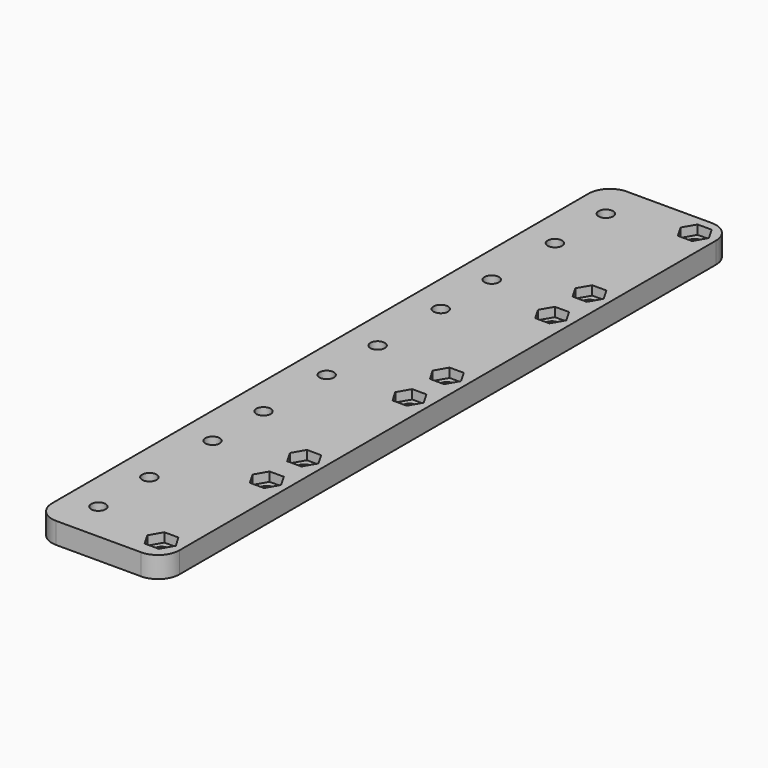
from build123d import *

# Parameters (mm, degrees)
SKETCH_W                           = 10
SKETCH_H                           = 168
PAD_DEPTH                          = 5
POCKET_DEPTH                       = 2.15
SKETCH002_R                        = 1.7
HOLE_DEPTH                         = 339.594226
POCKET_LINEARPATTERN_2_DEPTH       = 2.15
SKETCH002_LINEARPATTERN_2_R        = 1.7
HOLE_LINEARPATTERN_2_DEPTH         = 339.594226
LINEARPATTERN001_COUNT             = 4
LINEARPATTERN001_PITCH             = 42
SKETCH003_W                        = 168
SKETCH003_H                        = 5
PAD001_DEPTH                       = 20
POCKET001_DEPTH                    = 2.15
SKETCH005_R                        = 1.7
HOLE001_DEPTH                      = 344.312564
POCKET001_LINEARPATTERN002_2_DEPTH = 2.15
SKETCH005_LINEARPATTERN002_2_R     = 1.7
HOLE001_LINEARPATTERN002_2_DEPTH   = 344.312564
LINEARPATTERN003_COUNT             = 5
LINEARPATTERN003_PITCH             = 33.6
FILLET_R                           = 5


with BuildPart() as part:
    # Sketch → Pad (new body)
    with BuildSketch(Plane.XY):
        with Locations((0, -79)):
            Rectangle(SKETCH_W, SKETCH_H)
    extrude(amount=PAD_DEPTH)

    # Sketch001 (on Face6 of Pad) → Pocket (cut)
    with BuildSketch(Plane.XY.offset(5)):
        Polygon((3.348632, 0), (1.674316, 2.9), (-1.674316, 2.9), (-3.348632, 0), (-1.674316, -2.9), (1.674316, -2.9), align=None)
    pocket = extrude(amount=-POCKET_DEPTH, mode=Mode.SUBTRACT)

    # Sketch002 (on Face13 of Pocket) → Hole (cut, through all)
    with BuildSketch(Plane.XY.offset(2.85)):
        Circle(SKETCH002_R)
    hole = extrude(amount=-HOLE_DEPTH, mode=Mode.SUBTRACT)

    # Sketch001 LinearPattern 2 → Pocket LinearPattern 2 (cut)
    with BuildSketch(Plane(origin=(0, -31, 5), x_dir=(1, 0, 0), z_dir=(0, 0, 1))):
        Polygon((3.348632, 0), (1.674316, 2.9), (-1.674316, 2.9), (-3.348632, 0), (-1.674316, -2.9), (1.674316, -2.9), align=None)
    pocket_linearpattern_2 = extrude(amount=-POCKET_LINEARPATTERN_2_DEPTH, mode=Mode.SUBTRACT)

    # Sketch002 LinearPattern 2 → Hole LinearPattern 2 (cut, through all)
    with BuildSketch(Plane(origin=(0, -31, 2.85), x_dir=(1, 0, 0), z_dir=(0, 0, 1))):
        Circle(SKETCH002_LINEARPATTERN_2_R)
    hole_linearpattern_2 = extrude(amount=-HOLE_LINEARPATTERN_2_DEPTH, mode=Mode.SUBTRACT)

    # LinearPattern001: Pocket, Hole, Pocket LinearPattern 2, Hole LinearPattern 2 ×4
    with Locations(*[(0, -i * LINEARPATTERN001_PITCH, 0) for i in range(1, LINEARPATTERN001_COUNT)]):
        add(pocket, mode=Mode.SUBTRACT)
        add(hole, mode=Mode.SUBTRACT)
        add(pocket_linearpattern_2, mode=Mode.SUBTRACT)
        add(hole_linearpattern_2, mode=Mode.SUBTRACT)

    # Sketch003 (on Face2 of MultiTransform) → Pad001 (join)
    with BuildSketch(Plane(origin=(-5, 0, 0), x_dir=(0, -1, 0), z_dir=(-1, 0, 0))):
        with Locations((79, 2.5)):
            Rectangle(SKETCH003_W, SKETCH003_H)
    extrude(amount=PAD001_DEPTH)

    # Sketch004 (on Face7 of Pad001) → Pocket001 (cut)
    with BuildSketch(Plane(origin=(0, 0, 0), x_dir=(1, 0, 0), z_dir=(0, 0, -1))):
        Polygon((-14.151368, 153.7), (-15.825684, 156.6), (-19.174316, 156.6), (-20.848632, 153.7), (-19.174316, 150.8), (-15.825684, 150.8), align=None)
    pocket001 = extrude(amount=-POCKET001_DEPTH, mode=Mode.SUBTRACT)

    # Sketch005 (on Face81 of Pocket001) → Hole001 (cut, through all)
    with BuildSketch(Plane(origin=(0, 0, 2.15), x_dir=(1, 0, 0), z_dir=(0, 0, -1))):
        with Locations((-17.5, 153.7)):
            Circle(SKETCH005_R)
    hole001 = extrude(amount=-HOLE001_DEPTH, mode=Mode.SUBTRACT)

    # Sketch004 LinearPattern002 2 → Pocket001 LinearPattern002 2 (cut)
    with BuildSketch(Plane(origin=(0, 15, 0), x_dir=(1, 0, 0), z_dir=(0, 0, -1))):
        Polygon((-14.151368, 153.7), (-15.825684, 156.6), (-19.174316, 156.6), (-20.848632, 153.7), (-19.174316, 150.8), (-15.825684, 150.8), align=None)
    pocket001_linearpattern002_2 = extrude(amount=-POCKET001_LINEARPATTERN002_2_DEPTH, mode=Mode.SUBTRACT)

    # Sketch005 LinearPattern002 2 → Hole001 LinearPattern002 2 (cut, through all)
    with BuildSketch(Plane(origin=(0, 15, 2.15), x_dir=(1, 0, 0), z_dir=(0, 0, -1))):
        with Locations((-17.5, 153.7)):
            Circle(SKETCH005_LINEARPATTERN002_2_R)
    hole001_linearpattern002_2 = extrude(amount=-HOLE001_LINEARPATTERN002_2_DEPTH, mode=Mode.SUBTRACT)

    # LinearPattern003: Pocket001, Hole001, Pocket001 LinearPattern002 2, Hole001 LinearPattern002 2 ×5
    with Locations(*[(0, i * LINEARPATTERN003_PITCH, 0) for i in range(1, LINEARPATTERN003_COUNT)]):
        add(pocket001, mode=Mode.SUBTRACT)
        add(hole001, mode=Mode.SUBTRACT)
        add(pocket001_linearpattern002_2, mode=Mode.SUBTRACT)
        add(hole001_linearpattern002_2, mode=Mode.SUBTRACT)

    # Fillet
    fillet_edges = [part.edges().sort_by_distance(p)[0] for p in [
        (5, -163, 2.5),
        (-25, -163, 2.5),
        (5, 5, 2.5),
        (-25, 5, 2.5),
    ]]
    fillet(fillet_edges, radius=FILLET_R)


solid = part.part
